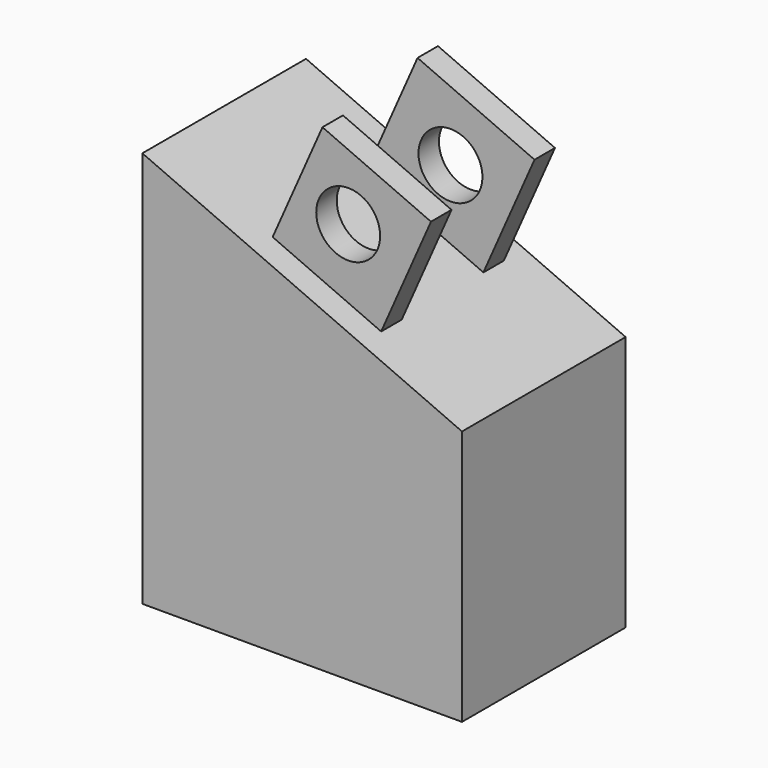
from build123d import *

# Parameters (mm, degrees)
F1_DEPTH = 16
F2_W     = 10
F2_H     = 2
F3_DEPTH = 9.906
F2_W_2   = 9.277396
F2_H_2   = 2.0066
F4_DEPTH = 9.652
F5_R     = 2.5
F6_DEPTH = 17.5006


with BuildPart() as f1:
    # F0 (on Front) → F1 (new body)
    with BuildSketch(Plane.XZ):
        Polygon((-25, 0), (0, 0), (0, 20), (-25, 31.029411), align=None)
    extrude(amount=F1_DEPTH)

    # F2 (on face) → F3 (join)
    with BuildSketch(Plane(origin=(7.385952, 0, 16.741492), x_dir=(0.914918, 0, -0.40364), z_dir=(0.40364, 0, 0.914918))):
        with Locations((-21.735233, -3)):
            Rectangle(F2_W, F2_H)
    extrude(amount=F3_DEPTH)

    # F2 (on face) → F4 (join)
    with BuildSketch(Plane(origin=(7.385952, 0, 16.741492), x_dir=(0.914918, 0, -0.40364), z_dir=(0.40364, 0, 0.914918))):
        with Locations((-21.735233, -3)):
            Rectangle(F2_W, F2_H)
        with Locations((-21.370131, -12.9967)):
            Rectangle(F2_W_2, F2_H_2)
    extrude(amount=F4_DEPTH)

    # F5 (on face) → F6 (cut)
    with BuildSketch(Plane(origin=(0, -2, 0), x_dir=(-1, 0, 0), z_dir=(0, 1, 0))):
        with Locations((10.50077, 30.046294)):
            Circle(F5_R)
    extrude(amount=-F6_DEPTH, mode=Mode.SUBTRACT)


solid = f1.part
